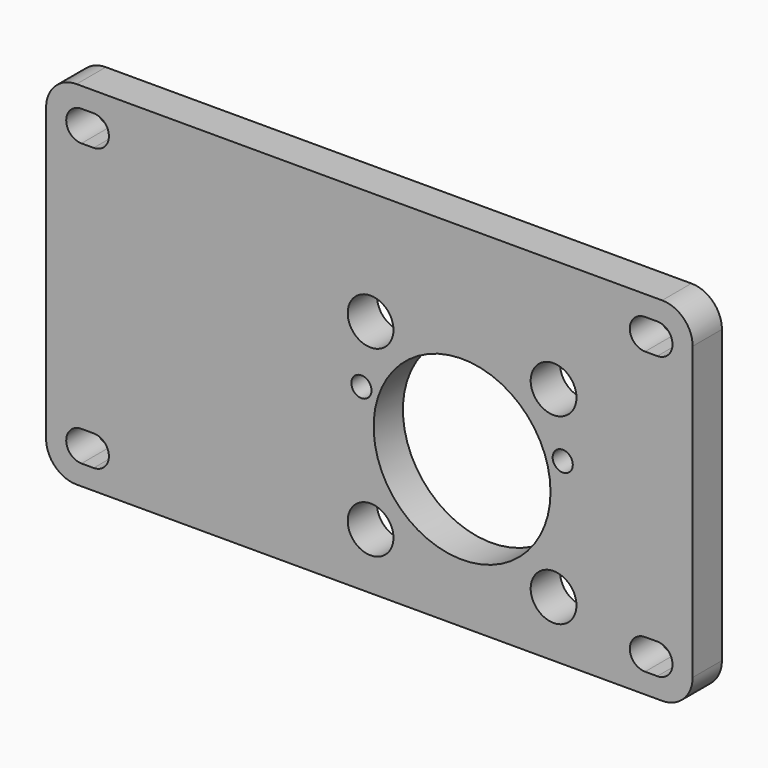
from build123d import *

# Parameters (mm, degrees)
F0_W     = 106
F0_H     = 57.8
F0_R     = 3.75
F0_R_2   = 14.5
F1_DEPTH = 6
F3_DEPTH = 6
F4_D     = 3.3
F5_R     = 5


with BuildPart() as f1:
    # F0 (on Front) → F1 (new body)
    with BuildSketch(Plane.XZ):
        with Locations((53, 28.9)):
            Rectangle(F0_W, F0_H)
        with Locations((53.2, 9.2)):
            Circle(F0_R, mode=Mode.SUBTRACT)
        with Locations((83.2, 9.2)):
            Circle(F0_R, mode=Mode.SUBTRACT)
        with Locations((68.2, 24.2)):
            Circle(F0_R_2, mode=Mode.SUBTRACT)
        with Locations((53.2, 39.2)):
            Circle(F0_R, mode=Mode.SUBTRACT)
        with Locations((83.2, 39.2)):
            Circle(F0_R, mode=Mode.SUBTRACT)
    extrude(amount=F1_DEPTH)

    # F2 (on face) → F3 (cut, through all)
    with BuildSketch(Plane.XZ.offset(6)):
        with BuildLine():
            Line((7.8, 54.5), (5.8, 54.5))
            ThreePointArc((5.8, 54.5), (3.3, 52), (5.8, 49.5))
            Line((5.8, 49.5), (7.8, 49.5))
            ThreePointArc((7.8, 49.5), (10.3, 52), (7.8, 54.5))
        make_face()
        with BuildLine():
            Line((7.8, 8.3), (5.8, 8.3))
            ThreePointArc((5.8, 8.3), (3.3, 5.8), (5.8, 3.3))
            Line((5.8, 3.3), (7.8, 3.3))
            ThreePointArc((7.8, 3.3), (10.3, 5.8), (7.8, 8.3))
        make_face()
        with BuildLine():
            Line((100.2, 8.3), (98.2, 8.3))
            ThreePointArc((98.2, 8.3), (95.7, 5.8), (98.2, 3.3))
            Line((98.2, 3.3), (100.2, 3.3))
            ThreePointArc((100.2, 3.3), (102.7, 5.8), (100.2, 8.3))
        make_face()
        with BuildLine():
            Line((100.2, 54.5), (98.2, 54.5))
            ThreePointArc((98.2, 54.5), (95.7, 52), (98.2, 49.5))
            Line((98.2, 49.5), (100.2, 49.5))
            ThreePointArc((100.2, 49.5), (102.7, 52), (100.2, 54.5))
        make_face()
    extrude(amount=-F3_DEPTH, mode=Mode.SUBTRACT)

    # F4 (through all)
    with Locations(Plane.XZ.offset(6)):
        with Locations((51.7, 29.3), (84.7, 29.3)):
            Hole(F4_D / 2)

    # F5
    f5_edges = [f1.edges().sort_by_distance(p)[0] for p in [
        (106, -3, 57.8),
        (106, -3, 0),
        (0, -3, 0),
        (0, -3, 57.8),
    ]]
    fillet(f5_edges, radius=F5_R)


solid = f1.part
